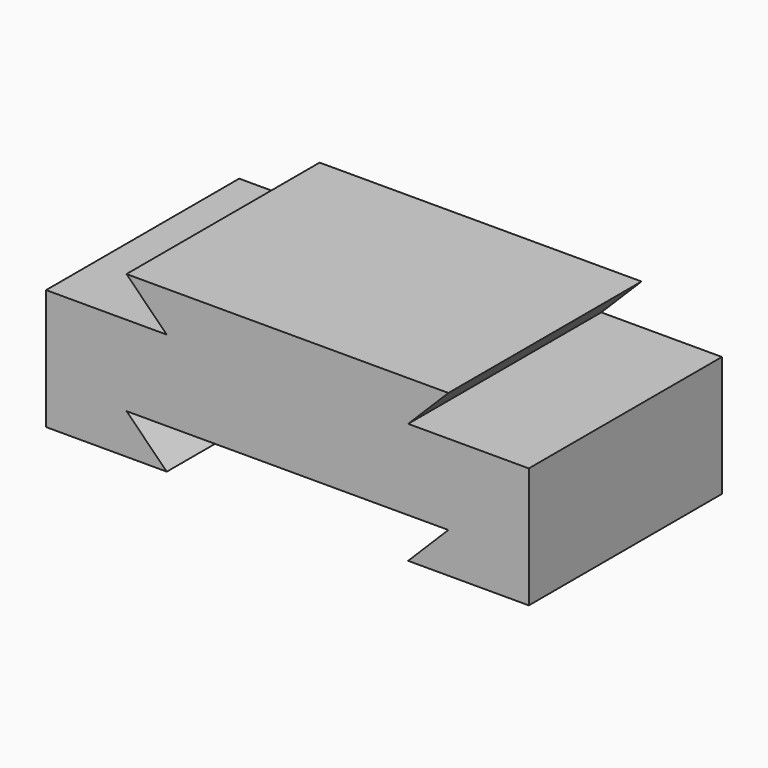
from build123d import *

# Parameters (mm, degrees)
F0_W     = 76.2029737234
F0_H     = 50.7892221212
F1_DEPTH = 76.2
F2_DEPTH = 76.2
F3_W     = 25.3895288229
F3_H     = 12.7094006166
F4_DEPTH = 169.164


with BuildPart() as f1:
    # F0 (on Right) → F1 (new body)
    with BuildSketch(Plane.YZ):
        Rectangle(F0_W, F0_H)
    extrude(amount=F1_DEPTH)

    # F2 (add): a face of the model
    f2_faces = [f1.faces().sort_by_distance(p)[0] for p in [
        (0, 0, 0),
    ]]
    extrude(f2_faces, amount=F2_DEPTH)

    # F3 (on face) → F4 (cut)
    with BuildSketch(Plane(origin=(0, 38.1014868617, 0), x_dir=(-1, 0, 0), z_dir=(0, 1, 0))):
        Polygon((-50.7960021496, -12.6930763945), (-38.0911789834, -25.3946110606), (38.0879864097, -25.3946110606), (50.7873259485, -12.705120258), align=None)
        Polygon((76.2, 25.3946110606), (50.8108735085, 25.3946110606), (38.1050296128, 12.685210444), (50.8108735085, 12.685210444), (76.2, 12.685210444), align=None)
        Polygon((-50.8104711771, 25.3946110606), (-50.8104711771, 12.685210444), (-38.1180383265, 12.685210444), align=None)
        with Locations((-63.5052355886, 19.0399107523)):
            Rectangle(F3_W, F3_H)
    extrude(amount=-F4_DEPTH, mode=Mode.SUBTRACT)


solid = f1.part
